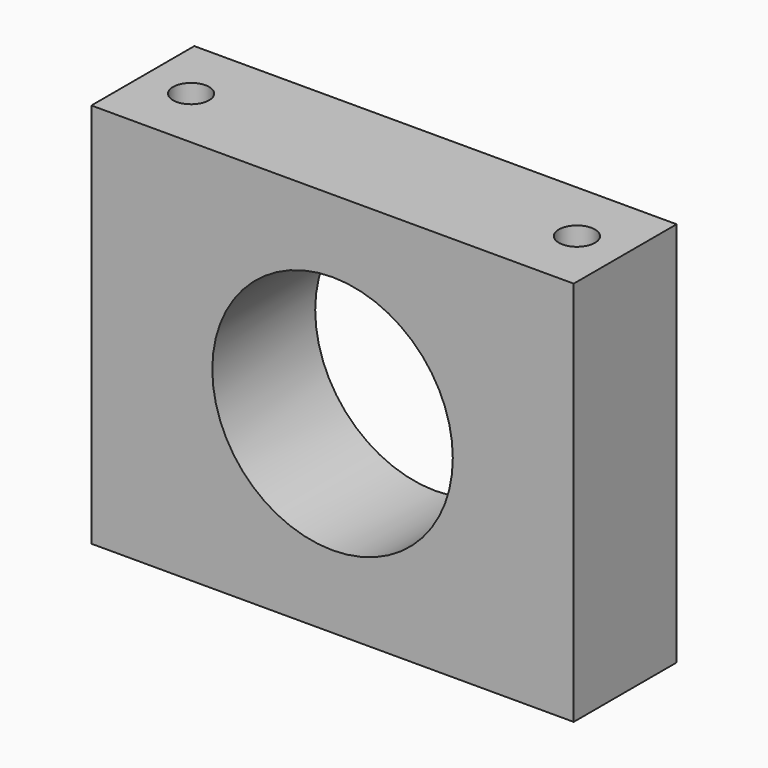
from build123d import *

# Parameters (mm, degrees)
F0_W     = 95.25
F0_H     = 25.4
F0_R     = 3.5687
F1_DEPTH = 76.2
F2_R     = 23.749
F3_DEPTH = 25.4


with BuildPart() as f1:
    # F0 (on Top) → F1 (new body)
    with BuildSketch(Plane.XY):
        with Locations((0, -12.7)):
            Rectangle(F0_W, F0_H)
        with Locations((-38.1, -12.7)):
            Circle(F0_R, mode=Mode.SUBTRACT)
        with Locations((38.1, -12.7)):
            Circle(F0_R, mode=Mode.SUBTRACT)
    extrude(amount=F1_DEPTH)

    # F2 (on face) → F3 (cut, through all)
    with BuildSketch(Plane(origin=(0, 0, 0), x_dir=(-1, 0, 0), z_dir=(0, 1, 0))):
        with Locations((0, 38.1)):
            Circle(F2_R)
    extrude(amount=-F3_DEPTH, mode=Mode.SUBTRACT)


solid = f1.part
